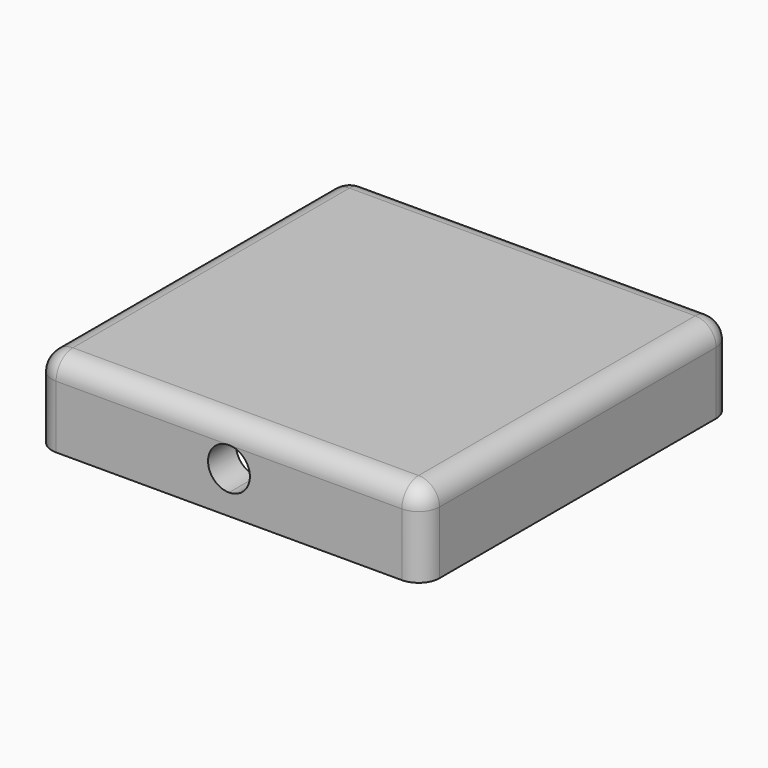
from build123d import *

# Parameters (mm, degrees)
F0_W     = 92.7
F0_H     = 92.7
F0_W_2   = 76
F0_H_2   = 76
F1_DEPTH = 20
F2_R     = 5
F4_DEPTH = 15
F5_DEPTH = 8.35


with BuildPart() as f1:
    # F0 (on Top) → F1 (new body)
    with BuildSketch(Plane.XY):
        Rectangle(F0_W, F0_H)
        Rectangle(F0_W_2, F0_H_2, mode=Mode.SUBTRACT)
        Rectangle(F0_W_2, F0_H_2)
    extrude(amount=F1_DEPTH)

    # F2
    f2_edges = [f1.edges().sort_by_distance(p)[0] for p in [
        (-46.35, 0, 20),
        (0, 46.35, 20),
        (46.35, 0, 20),
        (0, -46.35, 20),
        (46.35, -46.35, 10),
        (-46.35, -46.35, 10),
        (46.35, 46.35, 10),
        (-46.35, 46.35, 10),
    ]]
    fillet(f2_edges, radius=F2_R)

    # F0 (on Top) → F4 (cut)
    with BuildSketch(Plane.XY):
        Rectangle(F0_W_2, F0_H_2)
    extrude(amount=F4_DEPTH, mode=Mode.SUBTRACT)

    # F3 (on face) → F5 (cut, through all)
    with BuildSketch(Plane.XZ.offset(46.35)):
        with BuildLine():
            ThreePointArc((0, 15), (-5, 10), (0, 5))
            ThreePointArc((0, 5), (3.535534, 6.464466), (5, 10))
            ThreePointArc((5, 10), (3.535534, 13.535534), (0, 15))
        make_face()
    extrude(amount=-F5_DEPTH, mode=Mode.SUBTRACT)


solid = f1.part
